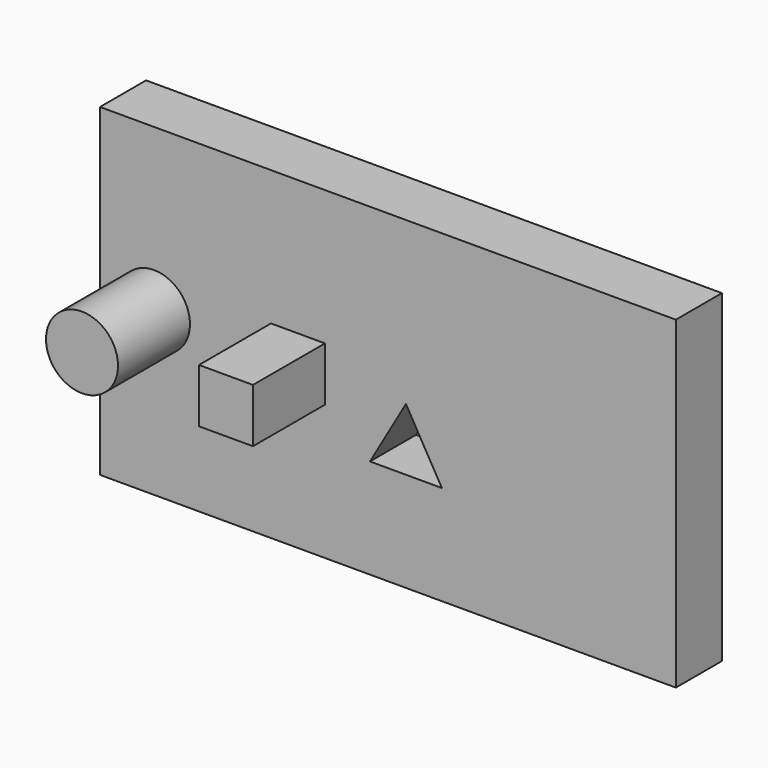
from build123d import *

# Parameters (mm, degrees)
F0_W     = 203.2
F0_H     = 114.3
F0_R     = 12.7
F1_DEPTH = 20.32
F2_DEPTH = 52.07


with BuildPart() as f1:
    # F0 (on Front) → F1 (new body)
    with BuildSketch(Plane.XZ):
        Rectangle(F0_W, F0_H)
        Polygon((-6.35, -21.997045), (6.35, 0), (19.05, -21.997045), align=None, mode=Mode.SUBTRACT)
        with Locations((-82.55, 0)):
            Circle(F0_R, mode=Mode.SUBTRACT)
        Polygon((-22.225, 9.525), (-22.225, 0), (-22.225, -9.525), (-41.275, -9.525), (-41.275, 0), (-41.275, 9.525), align=None, mode=Mode.SUBTRACT)
    extrude(amount=F1_DEPTH)

    # F0 (on Front) → F2 (join)
    with BuildSketch(Plane.XZ):
        with Locations((-82.55, 0)):
            Circle(F0_R)
        Polygon((-31.75, 0), (-22.225, 0), (-22.225, 9.525), (-41.275, 9.525), (-41.275, 0), align=None)
        Polygon((-22.225, -9.525), (-22.225, 0), (-31.75, 0), (-41.275, 0), (-41.275, -9.525), align=None)
    extrude(amount=F2_DEPTH)


solid = f1.part
